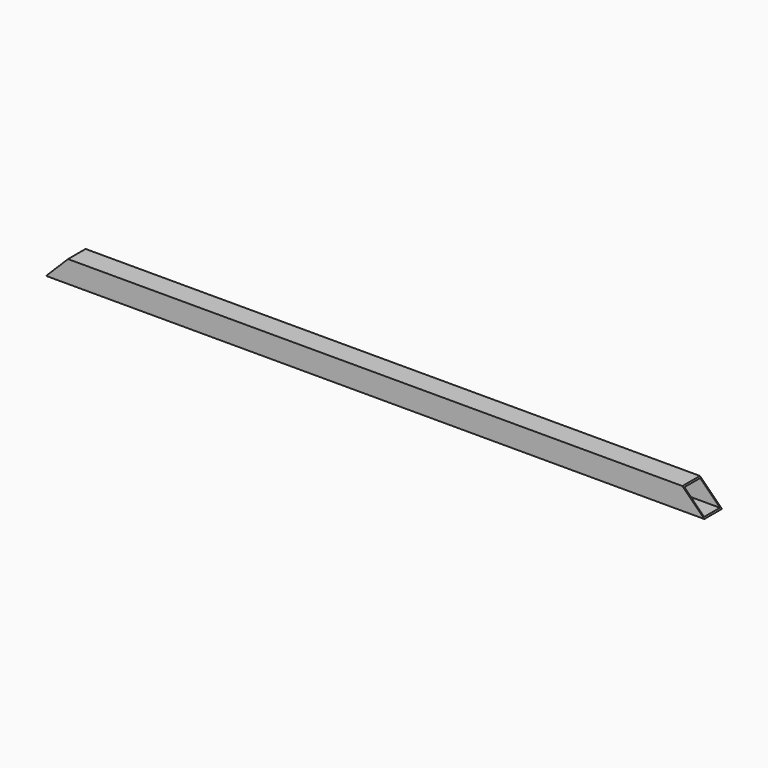
from build123d import *

# Parameters (mm, degrees)
F0_W     = 1524
F0_H     = 50.8
F1_DEPTH = 50.8
F2_T     = -2.54
F4_DEPTH = 50.801
F6_DEPTH = 50.801


with BuildPart() as f1:
    # F0 (on Top) → F1 (new body)
    with BuildSketch(Plane.XY):
        Rectangle(F0_W, F0_H)
    extrude(amount=F1_DEPTH)

    # F2
    f2_openings = [f1.faces().sort_by_distance(p)[0] for p in [
        (-762, 0, 25.4),
        (762, 0, 25.4),
    ]]
    offset(amount=F2_T, openings=f2_openings)

    # F3 (on face) → F4 (cut, through all)
    with BuildSketch(Plane.XZ.offset(25.4)):
        Polygon((711.2, 50.8), (762, 0), (762, 50.8), align=None)
    extrude(amount=-F4_DEPTH, mode=Mode.SUBTRACT)

    # F5 (on face) → F6 (cut, through all)
    with BuildSketch(Plane.XZ.offset(25.4)):
        Polygon((-762, 50.8), (-762, 0), (-711.2, 50.8), align=None)
    extrude(amount=-F6_DEPTH, mode=Mode.SUBTRACT)


solid = f1.part
